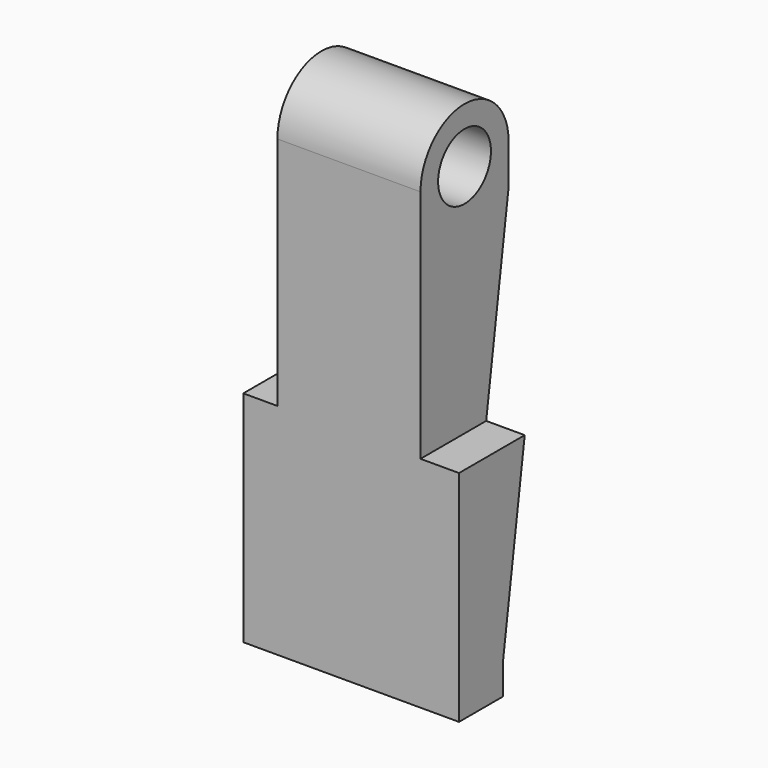
from build123d import *

# Parameters (mm, degrees)
F1_R          = 3.81
F2_DEPTH      = 12.7
F2_DEPTH_BACK = 12.192
F3_DEPTH      = 127


with BuildPart() as f2:
    # F1 (on Right) → F2 (new body, two sides)
    with BuildSketch(Plane.YZ) as f2_sk:
        Polygon((0, 19.195739), (0, -3.054661), (0, -28.454661), (6.35, -28.454661), (6.35, -24.844586), (12.699994, 19.195739), align=None)
        with BuildLine():
            Line((0, 23.94554), (0, 19.195739))
            Line((0, 19.195739), (12.699994, 19.195739))
            Line((12.699994, 19.195739), (12.699994, 23.935918))
            ThreePointArc((12.699994, 23.935918), (6.354811, 30.295539), (0, 23.94554))
        make_face()
        with Locations((6.35, 23.94554)):
            Circle(F1_R, mode=Mode.SUBTRACT)
    extrude(amount=F2_DEPTH)
    extrude(f2_sk.sketch, amount=-F2_DEPTH_BACK)

    # F0 (on Front) → F3 (cut)
    with BuildSketch(Plane.XZ):
        Polygon((-12.7, 34.925), (-12.7, -3.175), (-8.255, -3.175), (-8.255, 28.575), (-8.255, 34.925), align=None)
        Polygon((8.255, -3.175), (12.7, -3.175), (12.7, 34.925), (8.255, 34.925), (8.255, 28.575), align=None)
    extrude(amount=-F3_DEPTH, mode=Mode.SUBTRACT)


solid = f2.part
